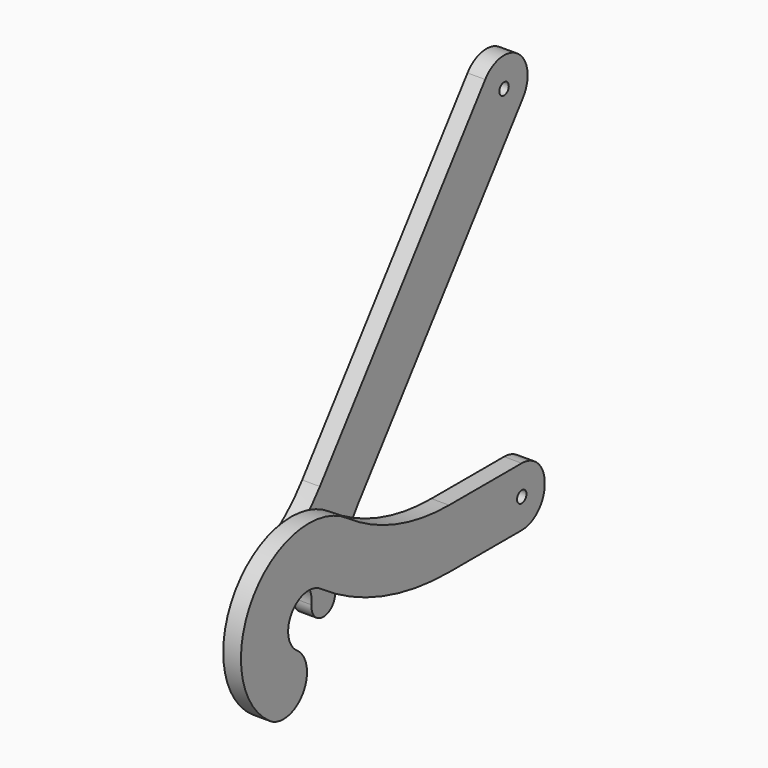
from build123d import *

# Parameters (mm, degrees)
F0_R     = 4
F1_DEPTH = 12
F2_R     = 4
F3_DEPTH = 12


with BuildPart() as f1:
    # F0 (on Right) → F1 (new body)
    with BuildSketch(Plane.YZ):
        with BuildLine():
            ThreePointArc((-210.037588, -14.335161), (-214.335161, 10.037588), (-189.962412, 14.335161))
            ThreePointArc((-189.962412, 14.335161), (-138.156147, -11.212862), (-81.065195, -20))
            Line((-81.065195, -20), (-19.5, -20))
            ThreePointArc((-19.5, -20), (-5.711418, -14.288582), (0, -0.5))
            Line((0, -0.5), (0, 0.5))
            ThreePointArc((0, 0.5), (-5.711418, 14.288582), (-19.5, 20))
            Line((-19.5, 20), (-81.065195, 20))
            ThreePointArc((-81.065195, 20), (-126.127915, 26.935816), (-167.019355, 47.101243))
            ThreePointArc((-167.019355, 47.101243), (-247.101243, 32.980645), (-232.980645, -47.101243))
            ThreePointArc((-232.980645, -47.101243), (-205.126075, -42.18973), (-210.037588, -14.335161))
        make_face()
        with Locations((-19.5, 0)):
            Circle(F0_R, mode=Mode.SUBTRACT)
    extrude(amount=F1_DEPTH)


with BuildPart() as f3:
    # F2 (on Right) → F3 (new body)
    with BuildSketch(Plane.YZ):
        with BuildLine():
            ThreePointArc((-206.840787, 16.107565), (-189.470833, 13.978077), (-182.630046, -2.129487))
            ThreePointArc((-182.630046, -2.129487), (-174.005561, -13.261319), (-162.800799, -4.731798))
            ThreePointArc((-162.800799, -4.731798), (-156.168814, 19.644102), (-143.639929, 41.580255))
            Line((-143.639929, 41.580255), (-3.525054, 227.590852))
            ThreePointArc((-3.525054, 227.590852), (-7.466667, 255.599131), (-35.474946, 251.657518))
            Line((-35.474946, 251.657518), (-175.589821, 65.646922))
            ThreePointArc((-175.589821, 65.646922), (-193.216053, 47.550412), (-214.814784, 34.448405))
            ThreePointArc((-214.814784, 34.448405), (-219.92056, 21.324744), (-206.840787, 16.107565))
        make_face()
        with Locations((-19.5, 239.624185)):
            Circle(F2_R, mode=Mode.SUBTRACT)
    extrude(amount=-F3_DEPTH)


solid = Compound([f1.part, f3.part])
